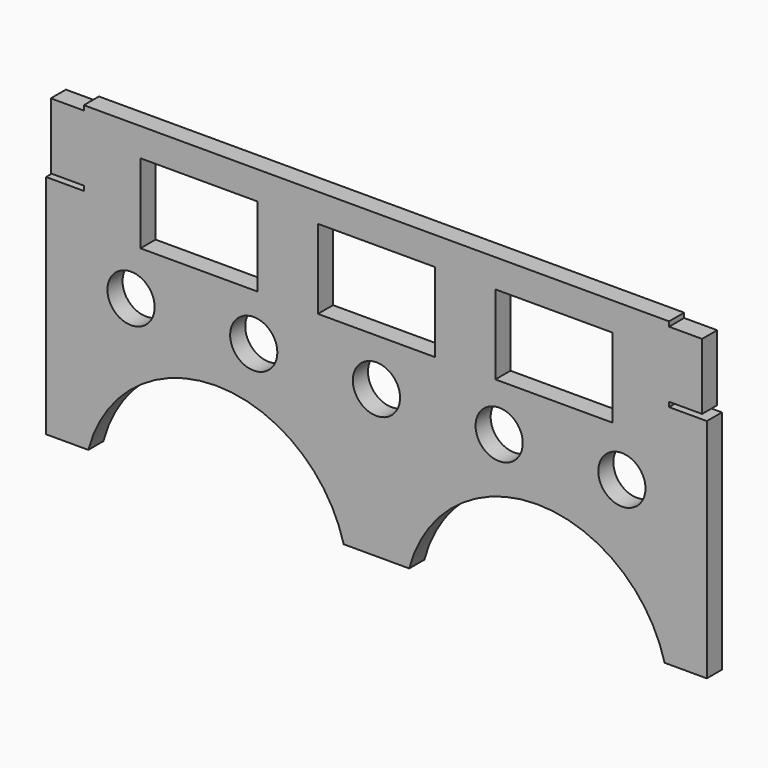
from build123d import *

# Parameters (mm, degrees)
F0_R     = 15.875
F0_W     = 78.74
F0_H     = 53.34
F1_DEPTH = 12.7


with BuildPart() as f1:
    # F0 (on Front) → F1 (new body)
    with BuildSketch(Plane.XZ):
        with BuildLine():
            Line((-22.039405, 0), (22.039405, 0))
            ThreePointArc((22.039405, 0), (107.95, 66.04), (193.860595, 0))
            Line((193.860595, 0), (222.25, 0))
            Line((222.25, 0), (222.25, 152.4))
            Line((222.25, 152.4), (196.85, 152.4))
            Line((196.85, 152.4), (196.85, 155.575))
            Line((196.85, 155.575), (219.075, 155.575))
            Line((219.075, 155.575), (219.075, 200.025))
            Line((219.075, 200.025), (196.85, 200.025))
            Line((196.85, 200.025), (196.85, 203.2))
            Line((196.85, 203.2), (-196.85, 203.2))
            Line((-196.85, 203.2), (-196.85, 200.025))
            Line((-196.85, 200.025), (-219.075, 200.025))
            Line((-219.075, 200.025), (-219.075, 155.575))
            Line((-219.075, 155.575), (-196.85, 155.575))
            Line((-196.85, 155.575), (-196.85, 152.4))
            Line((-196.85, 152.4), (-222.25, 152.4))
            Line((-222.25, 152.4), (-222.25, 0))
            Line((-222.25, 0), (-193.860595, 0))
            ThreePointArc((-193.860595, 0), (-107.95, 66.04), (-22.039405, 0))
        make_face()
        with Locations((-165.1, 99.06)):
            Circle(F0_R, mode=Mode.SUBTRACT)
        with Locations((-82.55, 99.06)):
            Circle(F0_R, mode=Mode.SUBTRACT)
        with Locations((0, 99.06)):
            Circle(F0_R, mode=Mode.SUBTRACT)
        with Locations((82.55, 99.06)):
            Circle(F0_R, mode=Mode.SUBTRACT)
        with Locations((165.1, 99.06)):
            Circle(F0_R, mode=Mode.SUBTRACT)
        with Locations((-119.38, 157.48)):
            Rectangle(F0_W, F0_H, mode=Mode.SUBTRACT)
        with Locations((0, 157.48)):
            Rectangle(F0_W, F0_H, mode=Mode.SUBTRACT)
        with Locations((119.38, 157.48)):
            Rectangle(F0_W, F0_H, mode=Mode.SUBTRACT)
    extrude(amount=F1_DEPTH)


solid = f1.part
